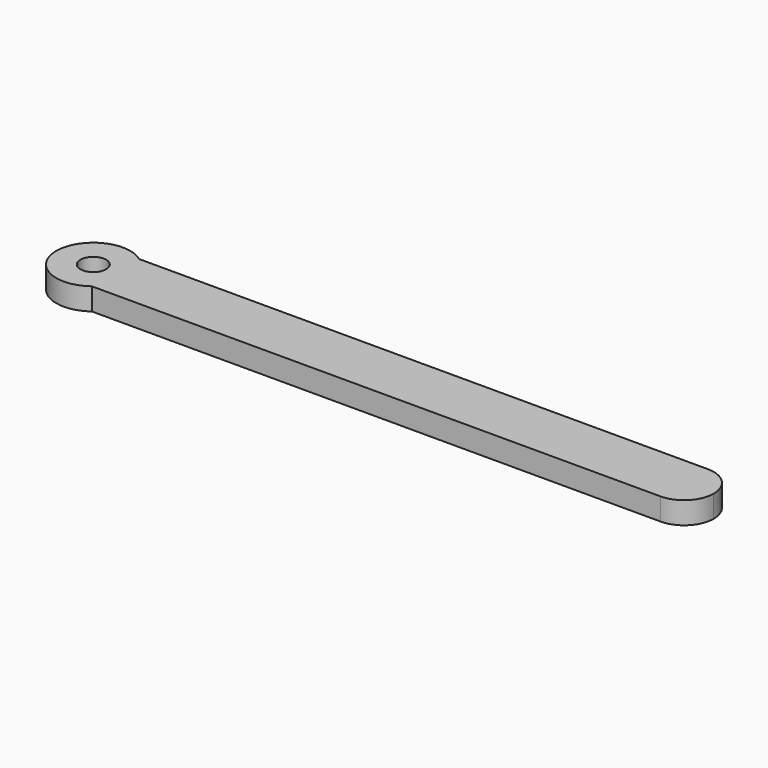
from build123d import *

# Parameters (mm, degrees)
F0_R     = 1.75
F1_DEPTH = 3


with BuildPart() as f1:
    # F0 (on Top) → F1 (new body)
    with BuildSketch(Plane.XY):
        with BuildLine():
            Line((80, 4), (3, 4))
            ThreePointArc((3, 4), (-5, 0), (3, -4))
            Line((3, -4), (80, -4))
            ThreePointArc((80, -4), (76, 0), (80, 4))
        make_face()
        Circle(F0_R, mode=Mode.SUBTRACT)
        with BuildLine():
            ThreePointArc((84, 0), (82.828427, 2.828427), (80, 4))
            ThreePointArc((80, 4), (76, 0), (80, -4))
            ThreePointArc((80, -4), (82.828427, -2.828427), (84, 0))
        make_face()
    extrude(amount=F1_DEPTH)


solid = f1.part
